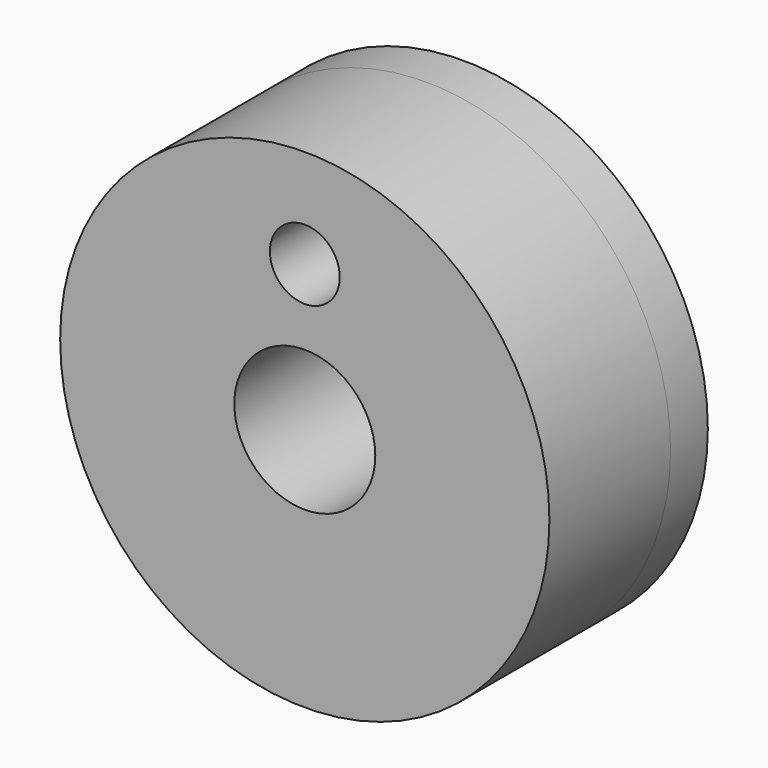
from build123d import *

# Parameters (mm, degrees)
F0_R     = 21
F0_R_2   = 6.05
F0_R_3   = 3
F1_DEPTH = 17
F2_DEPTH = 4


with BuildPart() as f1:
    # F0 (on Front) → F1 (new body)
    with BuildSketch(Plane.XZ):
        Circle(F0_R)
        Circle(F0_R_2, mode=Mode.SUBTRACT)
        with Locations((0, 12.5)):
            Circle(F0_R_3, mode=Mode.SUBTRACT)
    extrude(amount=F1_DEPTH)


with BuildPart() as f2:
    # F0 (on Front) → F2 (new body)
    with BuildSketch(Plane.XZ):
        Circle(F0_R)
        Circle(F0_R_2, mode=Mode.SUBTRACT)
        with Locations((0, 12.5)):
            Circle(F0_R_3, mode=Mode.SUBTRACT)
    extrude(amount=F2_DEPTH)


solid = Compound([f1.part, f2.part])
